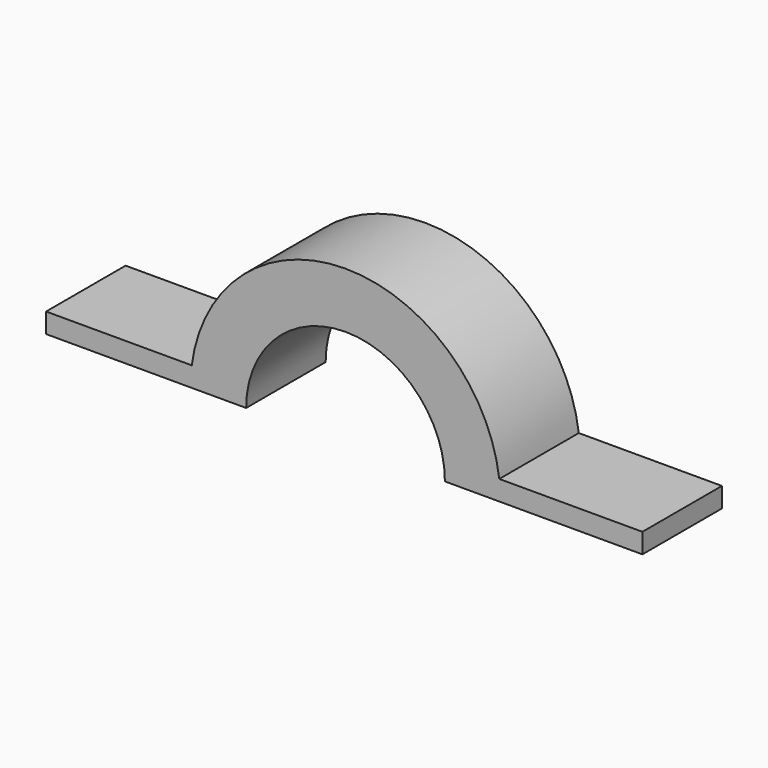
from build123d import *

# Parameters (mm, degrees)
F1_DEPTH = 50


with BuildPart() as f1:
    # F0 (on Front) → F1 (new body)
    with BuildSketch(Plane.XZ):
        with BuildLine():
            Line((-78, 0), (-50, 0))
            ThreePointArc((-50, 0), (0, 50), (50, 0))
            Line((50, 0), (149.356318, 0))
            Line((149.356318, 0), (149.356318, 10))
            Line((149.356318, 10), (77.356318, 10))
            ThreePointArc((77.356318, 10), (0, 78), (-77.356318, 10))
            Line((-77.356318, 10), (-150.643682, 10))
            Line((-150.643682, 10), (-150.643682, 0))
            Line((-150.643682, 0), (-78, 0))
        make_face()
    extrude(amount=F1_DEPTH)


solid = f1.part
